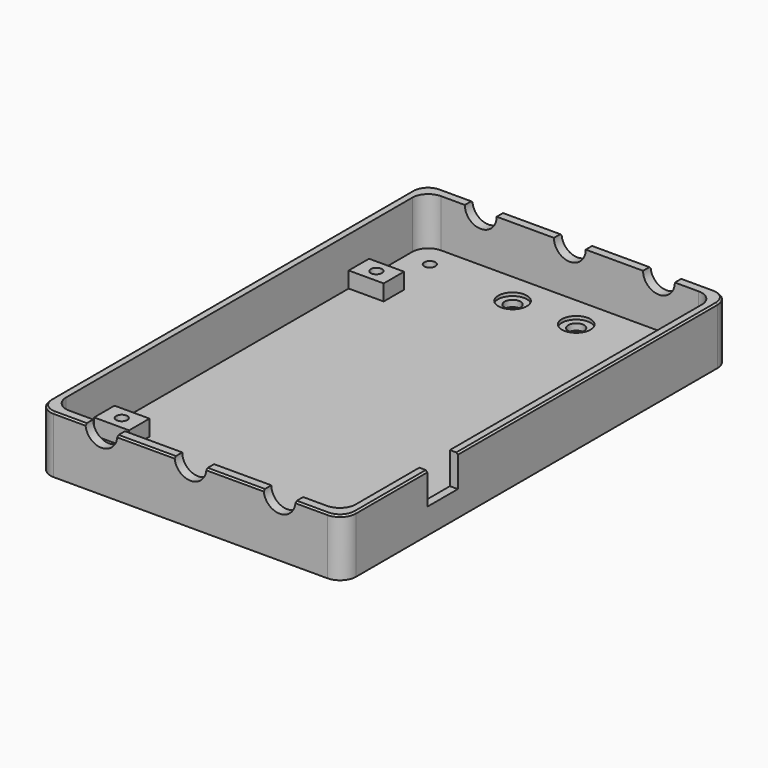
from build123d import *

# Parameters (mm, degrees)
F0_W      = 96
F0_H      = 152
F1_DEPTH  = 3
F2_W      = 96
F2_H      = 152
F2_W_2    = 91
F2_H_2    = 146
F3_DEPTH  = 15
F4_R      = 1.75
F5_DEPTH  = 3
F6_R      = 5
F7_R      = 5
F8_DEPTH  = 152.001
F9_W      = 11
F9_H      = 8
F10_DEPTH = 5
F11_R     = 1.75
F12_DEPTH = 15.001
F13_DEPTH = 25
F14_R     = 2.5
F15_DEPTH = 3.001
F16_W     = 12
F16_H     = 20.9038736373
F17_DEPTH = 2.501
F18_SIZE  = 0.5
F19_R     = 4.5
F20_DEPTH = 1


with BuildPart() as f1:
    # F0 (on Top) → F1 (new body)
    with BuildSketch(Plane.XY):
        Rectangle(F0_W, F0_H)
    extrude(amount=F1_DEPTH)

    # F2 (on face) → F3 (join)
    with BuildSketch(Plane.XY.offset(3)):
        Rectangle(F2_W, F2_H)
        Rectangle(F2_W_2, F2_H_2, mode=Mode.SUBTRACT)
    extrude(amount=F3_DEPTH)

    # F4 (on face) → F5 (cut, through all)
    with BuildSketch(Plane.XY.offset(3)):
        with Locations((-38, 65.5)):
            Circle(F4_R)
        with Locations((38, 65.5)):
            Circle(F4_R)
        with Locations((-38, -65.5)):
            Circle(F4_R)
        with Locations((38, -65.5)):
            Circle(F4_R)
    extrude(amount=-F5_DEPTH, mode=Mode.SUBTRACT)

    # F6
    f6_edges = [f1.edges().sort_by_distance(p)[0] for p in [
        (-48, -76, 9),
        (48, -76, 9),
        (45.5, -73, 10.5),
        (-45.5, -73, 10.5),
        (-48, 76, 9),
        (-45.5, 73, 10.5),
        (48, 76, 9),
        (45.5, 73, 10.5),
    ]]
    fillet(f6_edges, radius=F6_R)

    # F7 (on face) → F8 (cut, through all)
    with BuildSketch(Plane.XZ.offset(76)):
        with Locations((-28, 18)):
            Circle(F7_R)
        with Locations((0, 18)):
            Circle(F7_R)
        with Locations((28, 18)):
            Circle(F7_R)
    extrude(amount=-F8_DEPTH, mode=Mode.SUBTRACT)

    # F9 (on face) → F10 (join)
    with BuildSketch(Plane.XY.offset(3)):
        with Locations((-40, -53)):
            Rectangle(F9_W, F9_H)
        with Locations((40, -53)):
            Rectangle(F9_W, F9_H)
        with Locations((-40, 47)):
            Rectangle(F9_W, F9_H)
        with Locations((40, 47)):
            Rectangle(F9_W, F9_H)
    extrude(amount=F10_DEPTH)

    # F11 (on face) → F12 (cut, through all)
    with BuildSketch(Plane.XY.offset(3)):
        with Locations((-40, -53)):
            Circle(F11_R)
        with Locations((40, -53)):
            Circle(F11_R)
        with Locations((-40, 47)):
            Circle(F11_R)
        with Locations((40, 47)):
            Circle(F11_R)
    extrude(amount=F12_DEPTH, mode=Mode.SUBTRACT)

    # F11 (on face) → F13 (cut)
    with BuildSketch(Plane.XY.offset(3)):
        with Locations((-40, -53)):
            Circle(F11_R)
        with Locations((40, -53)):
            Circle(F11_R)
        with Locations((-40, 47)):
            Circle(F11_R)
        with Locations((40, 47)):
            Circle(F11_R)
    extrude(amount=-F13_DEPTH, mode=Mode.SUBTRACT)

    # F14 (on face) → F15 (cut, through all)
    with BuildSketch(Plane.XY.offset(3)):
        with Locations((-10, -63)):
            Circle(F14_R)
        with Locations((10, -63)):
            Circle(F14_R)
        with Locations((-10, 63)):
            Circle(F14_R)
        with Locations((10, 63)):
            Circle(F14_R)
    extrude(amount=-F15_DEPTH, mode=Mode.SUBTRACT)

    # F16 (on face) → F17 (cut, through all)
    with BuildSketch(Plane(origin=(45.5, 0, 0), x_dir=(0, -1, 0), z_dir=(-1, 0, 0))):
        with Locations((37, 18.4519368187)):
            Rectangle(F16_W, F16_H)
    extrude(amount=-F17_DEPTH, mode=Mode.SUBTRACT)

    # F18 (call 1 of 7: OpenCascade refuses the feature's edges together)
    f18_edges = [f1.edges().sort_by_distance(p)[0] for p in [
        (48, 20, 18),
    ]]
    chamfer(f18_edges, length=F18_SIZE)

    # F18#2 (call 2 of 7)
    f18_2_edges = [f1.edges().sort_by_distance(p)[0] for p in [
        (48, -57, 18),
        (46.535534, -74.535534, 18),
    ]]
    chamfer(f18_2_edges, length=F18_SIZE)

    # F18#3 (call 3 of 7)
    f18_3_edges = [f1.edges().sort_by_distance(p)[0] for p in [
        (14, -76, 18),
    ]]
    chamfer(f18_3_edges, length=F18_SIZE)

    # F18#4 (call 4 of 7)
    f18_4_edges = [f1.edges().sort_by_distance(p)[0] for p in [
        (-14, -76, 18),
    ]]
    chamfer(f18_4_edges, length=F18_SIZE)

    # F18#5 (call 5 of 7)
    f18_5_edges = [f1.edges().sort_by_distance(p)[0] for p in [
        (-38, -76, 18),
    ]]
    chamfer(f18_5_edges, length=F18_SIZE)

    # F18#6 (call 6 of 7)
    f18_6_edges = [f1.edges().sort_by_distance(p)[0] for p in [
        (-14, 76, 18),
    ]]
    chamfer(f18_6_edges, length=F18_SIZE)

    # F18#7 (call 7 of 7)
    f18_7_edges = [f1.edges().sort_by_distance(p)[0] for p in [
        (14, 76, 18),
    ]]
    chamfer(f18_7_edges, length=F18_SIZE)

    # F19 (on face) → F20 (cut)
    with BuildSketch(Plane.XY.offset(3)):
        with Locations((10, 63)):
            Circle(F19_R)
        with Locations((-10, 63)):
            Circle(F19_R)
        with Locations((10, -63)):
            Circle(F19_R)
        with Locations((-10, -63)):
            Circle(F19_R)
    extrude(amount=-F20_DEPTH, mode=Mode.SUBTRACT)


solid = f1.part
